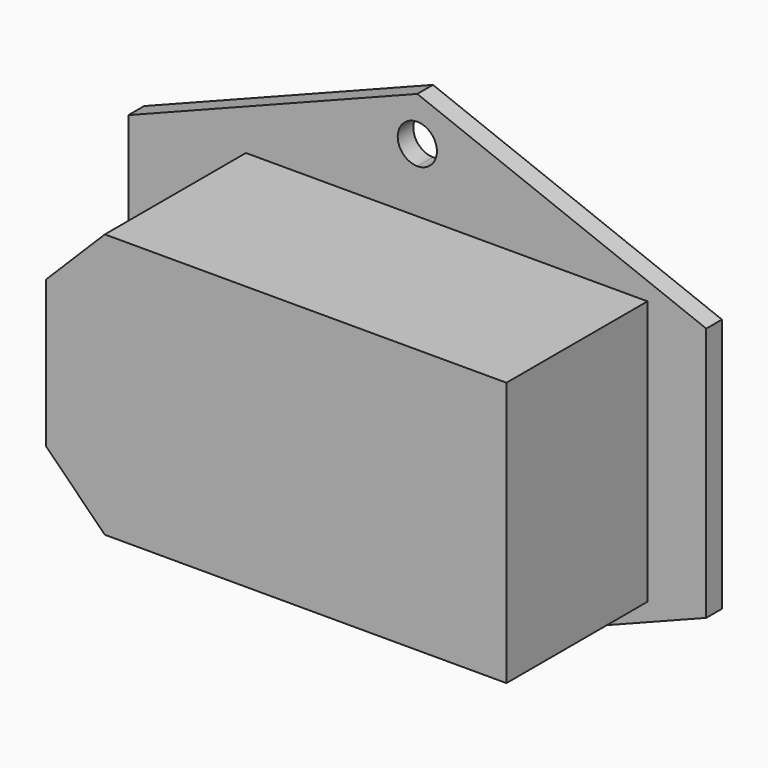
from build123d import *

# Parameters (mm, degrees)
F1_DEPTH = 2
F0_W     = 23.5
F0_H     = 27
F2_DEPTH = 20


with BuildPart() as f1:
    # F0 (on Front) → F1 (new body)
    with BuildSketch(Plane.XZ):
        Polygon((0, 24.5), (-29.5, 13), (-29.5, -13), (0, -24.5), (29.5, -13), (29.5, 13), align=None)
        with BuildLine():
            ThreePointArc((2, -20), (-1.414214, -21.414214), (0, -18))
            ThreePointArc((0, -18), (1.414214, -18.585786), (2, -20))
        make_face(mode=Mode.SUBTRACT)
        Polygon((-17.5, 13.5), (0, 13.5), (23.5, 13.5), (23.5, -13.5), (0, -13.5), (-17.5, -13.5), (-23.5, -7.5), (-23.5, 7.5), align=None, mode=Mode.SUBTRACT)
        with BuildLine():
            ThreePointArc((0, 18), (-1.414214, 21.414214), (2, 20))
            ThreePointArc((2, 20), (1.414214, 18.585786), (0, 18))
        make_face(mode=Mode.SUBTRACT)
    extrude(amount=F1_DEPTH)

    # F0 (on Front) → F2 (join)
    with BuildSketch(Plane.XZ):
        Polygon((0, -13.5), (0, 13.5), (-17.5, 13.5), (-23.5, 7.5), (-23.5, -7.5), (-17.5, -13.5), align=None)
        with Locations((11.75, 0)):
            Rectangle(F0_W, F0_H)
    extrude(amount=F2_DEPTH)


solid = f1.part
